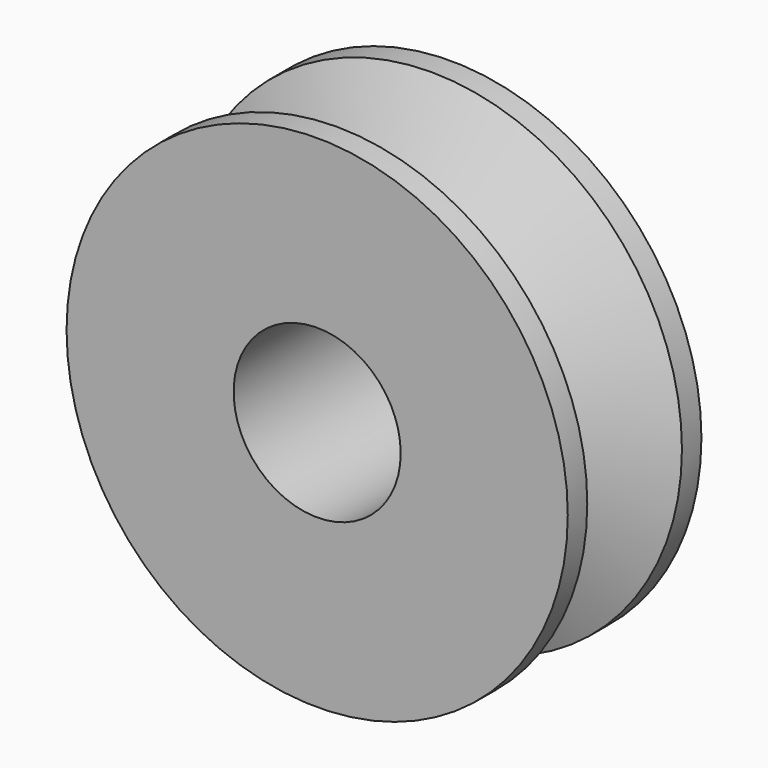
from build123d import *

# Parameters (mm, degrees)
F0_R     = 7.5
F0_R_2   = 2.5
F2_DEPTH = 5


with BuildPart() as f2:
    # F0 (on Front) → F2 (new body)
    with BuildSketch(Plane.XZ):
        with Locations((-20, 0)):
            Circle(F0_R)
        with Locations((-20, 0)):
            Circle(F0_R_2, mode=Mode.SUBTRACT)
    extrude(amount=F2_DEPTH)

    # F4 (on offset) → F5 (revolve, cut)
    with BuildSketch(Plane.YZ.offset(-20)):
        Polygon((-4.3, 7.560727), (-2.5, 3.823064), (-2.5, 7.560727), align=None)
        Polygon((-2.5, 7.560727), (-2.5, 3.823064), (-0.7, 7.560727), align=None)
    revolve(axis=Axis((-20, -3.509807, 0), (0, -1, 0)), mode=Mode.SUBTRACT)


solid = f2.part
